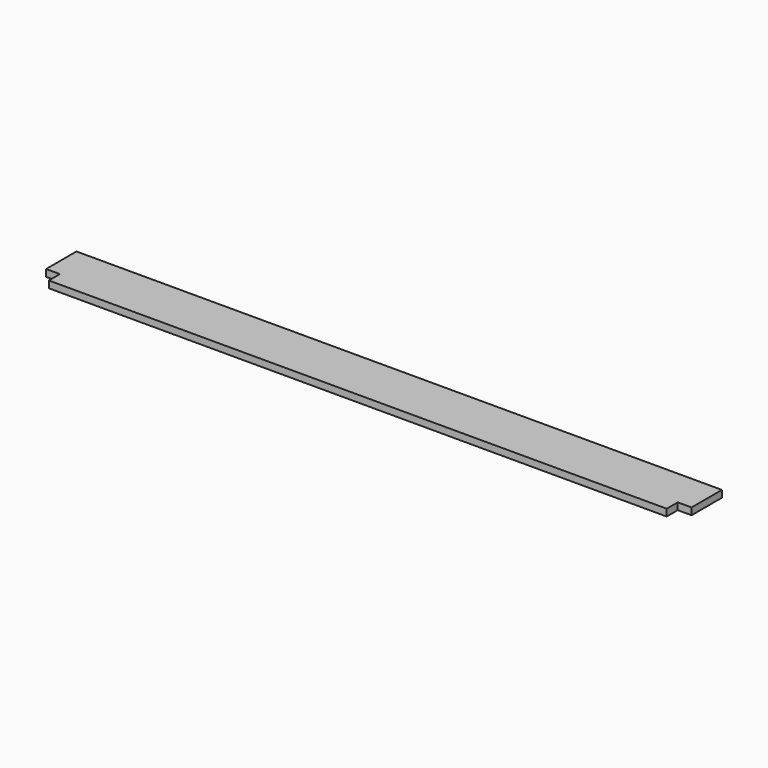
from build123d import *

# Parameters (mm, degrees)
F1_W     = 20
F1_H     = 110
F2_DEPTH = 20


with BuildPart() as f2:
    # F1 (on Top) → F2 (new body)
    with BuildSketch(Plane.XY):
        with Locations((-925, 20)):
            Rectangle(F1_W, F1_H)
        with Locations((925, 20)):
            Rectangle(F1_W, F1_H)
        Polygon((-895, -75), (895, -75), (895, -35), (915, -35), (915, 75), (-915, 75), (-915, -35), (-895, -35), align=None)
    extrude(amount=-F2_DEPTH)


solid = f2.part
